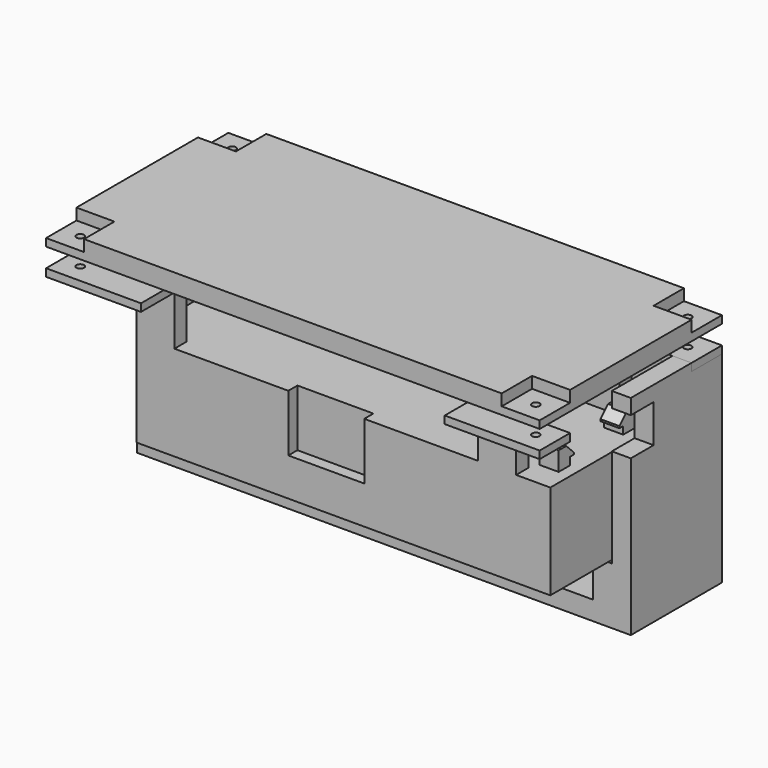
from build123d import *

# Parameters (mm, degrees)
CYLINDER002_R           = 1
CYLINDER002_DEPTH       = 20
BOX007_W                = 10
BOX007_H                = 10
BOX007_DEPTH            = 10
ARRAY005_X_COUNT        = 2
ARRAY005_X_PITCH        = 120
ARRAY005_Y_COUNT        = 2
ARRAY005_Y_PITCH        = 50
BOX002_W                = 130
BOX002_H                = 60
BOX002_DEPTH            = 5
BOX015_W                = 20
BOX015_H                = 3
BOX015_DEPTH            = 15
CYLINDER003_R           = 1
CYLINDER003_DEPTH       = 10
ARRAY009_X_COUNT        = 2
ARRAY009_X_PITCH        = 120
ARRAY009_Y_COUNT        = 2
ARRAY009_Y_PITCH        = 50
BOX011_W                = 25
BOX011_H                = 10
BOX011_DEPTH            = 2
ARRAY008_X_COUNT        = 2
ARRAY008_X_PITCH        = 105
ARRAY008_Y_COUNT        = 2
ARRAY008_Y_PITCH        = 50
BOX010_W                = 10
BOX010_H                = 15
BOX010_DEPTH            = 2
ARRAY007_X_COUNT        = 2
ARRAY007_X_PITCH        = 90
ARRAY007_Y_COUNT        = 2
ARRAY007_Y_PITCH        = 45
BOX009_W                = 10
BOX009_H                = 4
BOX009_DEPTH            = 15
ARRAY006_X_COUNT        = 2
ARRAY006_X_PITCH        = 90
ARRAY006_Y_COUNT        = 2
ARRAY006_Y_PITCH        = 34
BOX008_W                = 109
BOX008_H                = 38
BOX008_DEPTH            = 5
PAD001_DEPTH            = 20
SKETCH002_W             = 5
SKETCH002_H             = 11
PAD002_DEPTH            = 5
BOX013_W                = 17.5
BOX013_H                = 5
BOX013_DEPTH            = 2
BOX012_W                = 5
BOX012_H                = 5
BOX012_DEPTH            = 5
ARRAY010_X_COUNT        = 2
ARRAY010_X_PITCH        = 20
CHAMFER_SIZE            = 2.5
CHAMFER_PLACEMENT_ANGLE = 90
BOX016_W                = 130
BOX016_H                = 30
BOX016_DEPTH            = 60
BOX014_W                = 7
BOX014_H                = 15
BOX014_DEPTH            = 10
CYLINDER001_R           = 1
CYLINDER001_DEPTH       = 3
ARRAY004_X_COUNT        = 2
ARRAY004_X_PITCH        = 120
ARRAY004_Y_COUNT        = 2
ARRAY004_Y_PITCH        = 50
CYLINDER_R              = 1.5
CYLINDER_DEPTH          = 30
CYLINDER_ROLL_ANGLE     = 90
ARRAY003_X_COUNT        = 2
ARRAY003_X_PITCH        = 50
ARRAY003_Y_COUNT        = 2
ARRAY003_Y_PITCH        = 20
BOX006_W                = 25
BOX006_H                = 10
BOX006_DEPTH            = 2
ARRAY002_X_COUNT        = 2
ARRAY002_X_PITCH        = 105
ARRAY002_Y_COUNT        = 2
ARRAY002_Y_PITCH        = 50
BOX005_W                = 10
BOX005_H                = 10
BOX005_DEPTH            = 10
ARRAY001_X_COUNT        = 2
ARRAY001_X_PITCH        = 50
BOX004_W                = 10
BOX004_H                = 2
BOX004_DEPTH            = 10
ARRAY_X_COUNT           = 2
ARRAY_X_PITCH           = 50
ARRAY_Y_COUNT           = 2
ARRAY_Y_PITCH           = 20
BOX003_W                = 60
BOX003_H                = 10
BOX003_DEPTH            = 30
BOX001_W                = 120
BOX001_H                = 40
BOX001_DEPTH            = 50
BOX_W                   = 130
BOX_H                   = 60
BOX_DEPTH               = 55
PAD_DEPTH               = 10


with BuildPart() as cilindro002:
    # Cylinder002 → Cylinder002 (new body)
    with BuildSketch(Plane(origin=(5, 5, -5), x_dir=(1, 0, 0), z_dir=(0, 0, 1))):
        Circle(CYLINDER002_R)
    extrude(amount=CYLINDER002_DEPTH)


with BuildPart() as huecostapa:
    # Box007 → Box007 (new body)
    with BuildSketch(Plane.XY):
        with Locations((5, 5)):
            Rectangle(BOX007_W, BOX007_H)
    extrude(amount=BOX007_DEPTH)

    # Fusion: union Cilindro002
    add(cilindro002.part)

    # Array005 X: HuecosTapa ×2


with BuildPart() as huecostapa_1:
    add(huecostapa.part)
    with Locations(*[(i * ARRAY005_X_PITCH, 0, 0) for i in range(1, ARRAY005_X_COUNT)]):
        add(huecostapa.part)

    # Array005 Y: HuecosTapa ×2


with BuildPart() as huecostapa_2:
    add(huecostapa_1.part)
    with Locations(*[(0, i * ARRAY005_Y_PITCH, 0) for i in range(1, ARRAY005_Y_COUNT)]):
        add(huecostapa_1.part)


with BuildPart() as huecostapa_3:
    # Array005 placement: moved
    add(huecostapa_2.part.moved(Location((0, 0, 62))))


with BuildPart() as tapa:
    # Box002 → Box002 (new body)
    with BuildSketch(Plane.XY.offset(60)):
        with Locations((65, 30)):
            Rectangle(BOX002_W, BOX002_H)
    extrude(amount=BOX002_DEPTH)

    # Cut007: cut HuecosTapa
    add(huecostapa_3.part, mode=Mode.SUBTRACT)


with BuildPart() as hueco_tornillo_conector:
    # Box015 → Box015 (new body)
    with BuildSketch(Plane(origin=(55, 11, 25), x_dir=(1, 0, 0), z_dir=(0, 0, 1))):
        with Locations((10, 1.5)):
            Rectangle(BOX015_W, BOX015_H)
    extrude(amount=BOX015_DEPTH)


with BuildPart() as array009:
    # Cylinder003 → Cylinder003 (new body)
    with BuildSketch(Plane.XY):
        Circle(CYLINDER003_R)
    extrude(amount=CYLINDER003_DEPTH)

    # Array009 X: Array009 ×2


with BuildPart() as array009_1:
    add(array009.part)
    with Locations(*[(i * ARRAY009_X_PITCH, 0, 0) for i in range(1, ARRAY009_X_COUNT)]):
        add(array009.part)

    # Array009 Y: Array009 ×2


with BuildPart() as array009_2:
    add(array009_1.part)
    with Locations(*[(0, i * ARRAY009_Y_PITCH, 0) for i in range(1, ARRAY009_Y_COUNT)]):
        add(array009_1.part)


with BuildPart() as array009_3:
    # Array009 placement: moved
    add(array009_2.part.moved(Location((-10, -6, 13))))


with BuildPart() as array008:
    # Box011 → Box011 (new body)
    with BuildSketch(Plane(origin=(-15, -11, 18), x_dir=(1, 0, 0), z_dir=(0, 0, 1))):
        with Locations((12.5, 5)):
            Rectangle(BOX011_W, BOX011_H)
    extrude(amount=BOX011_DEPTH)

    # Array008 X: Array008 ×2


with BuildPart() as array008_1:
    add(array008.part)
    with Locations(*[(i * ARRAY008_X_PITCH, 0, 0) for i in range(1, ARRAY008_X_COUNT)]):
        add(array008.part)

    # Array008 Y: Array008 ×2


with BuildPart() as array008_2:
    add(array008_1.part)
    with Locations(*[(0, i * ARRAY008_Y_PITCH, 0) for i in range(1, ARRAY008_Y_COUNT)]):
        add(array008_1.part)


with BuildPart() as array007:
    # Box010 → Box010 (new body)
    with BuildSketch(Plane(origin=(0, -11, 18), x_dir=(1, 0, 0), z_dir=(0, 0, 1))):
        with Locations((5, 7.5)):
            Rectangle(BOX010_W, BOX010_H)
    extrude(amount=BOX010_DEPTH)

    # Array007 X: Array007 ×2


with BuildPart() as array007_1:
    add(array007.part)
    with Locations(*[(i * ARRAY007_X_PITCH, 0, 0) for i in range(1, ARRAY007_X_COUNT)]):
        add(array007.part)

    # Array007 Y: Array007 ×2


with BuildPart() as array007_2:
    add(array007_1.part)
    with Locations(*[(0, i * ARRAY007_Y_PITCH, 0) for i in range(1, ARRAY007_Y_COUNT)]):
        add(array007_1.part)


with BuildPart() as array006:
    # Box009 → Box009 (new body)
    with BuildSketch(Plane.XY.offset(5)):
        with Locations((5, 2)):
            Rectangle(BOX009_W, BOX009_H)
    extrude(amount=BOX009_DEPTH)

    # Array006 X: Array006 ×2


with BuildPart() as array006_1:
    add(array006.part)
    with Locations(*[(i * ARRAY006_X_PITCH, 0, 0) for i in range(1, ARRAY006_X_COUNT)]):
        add(array006.part)

    # Array006 Y: Array006 ×2


with BuildPart() as array006_2:
    add(array006_1.part)
    with Locations(*[(0, i * ARRAY006_Y_PITCH, 0) for i in range(1, ARRAY006_Y_COUNT)]):
        add(array006_1.part)


with BuildPart() as cut008:
    # Box008 → Box008 (new body)
    with BuildSketch(Plane.XY):
        with Locations((54.5, 19)):
            Rectangle(BOX008_W, BOX008_H)
    extrude(amount=BOX008_DEPTH)

    # Fusion001: union Array006
    add(array006_2.part)

    # Fusion002: union Array007
    add(array007_2.part)

    # Fusion003: union Array008
    add(array008_2.part)

    # Cut008: cut Array009
    add(array009_3.part, mode=Mode.SUBTRACT)


with BuildPart() as cut008_1:
    # Cut008 placement: moved
    add(cut008.part.moved(Location((0, 0, 20))))


with BuildPart() as cut011:
    # Sketch001 → Pad001 (new body)
    with BuildSketch(Plane.XY):
        Polygon((0, 24), (5, 24), (5, 34), (105, 34), (105, 4), (5, 4), (5, 14), (0, 14), (0, 0), (109, 0), (109, 38), (0, 38), align=None)
    extrude(amount=PAD001_DEPTH)

    # Fusion004: union Cut008
    add(cut008_1.part)


with BuildPart() as cut011_1:
    # Fusion004 placement: moved
    add(cut011.part.moved(Location((15, 11, 15))))

    # Sketch002 (on Face19 of Fusion004) → Pad002 (new body)
    with BuildSketch(Plane(origin=(15, 11, 40), x_dir=(1, 0, 0), z_dir=(0, 0, 1))):
        with Locations((84.75, 19)):
            Rectangle(SKETCH002_W, SKETCH002_H)
    extrude(amount=PAD002_DEPTH)

    # Cut011: cut Hueco_Tornillo_Conector
    add(hueco_tornillo_conector.part, mode=Mode.SUBTRACT)


with BuildPart() as clavijas_hueco:
    # Box013 → Box013 (new body)
    with BuildSketch(Plane(origin=(3.75, 0, 0), x_dir=(1, 0, 0), z_dir=(0, 0, 1))):
        with Locations((8.75, 2.5)):
            Rectangle(BOX013_W, BOX013_H)
    extrude(amount=BOX013_DEPTH)


with BuildPart() as soporte:
    # Box012 → Box012 (new body)
    with BuildSketch(Plane.XY):
        with Locations((2.5, 2.5)):
            Rectangle(BOX012_W, BOX012_H)
    extrude(amount=BOX012_DEPTH)

    # Array010 X: Soporte ×2


with BuildPart() as soporte_1:
    add(soporte.part)
    with Locations(*[(i * ARRAY010_X_PITCH, 0, 0) for i in range(1, ARRAY010_X_COUNT)]):
        add(soporte.part)

    # Cut009: cut Clavijas_hueco
    add(clavijas_hueco.part, mode=Mode.SUBTRACT)

    # Chamfer
    chamfer_edges = [soporte_1.edges().sort_by_distance(p)[0] for p in [
        (5, 2.5, 5),
        (20, 2.5, 5),
    ]]
    chamfer(chamfer_edges, length=CHAMFER_SIZE)


with BuildPart() as soporte_2:
    # Chamfer placement: moved
    add(soporte_1.part.moved(Location((121, 17.5, 40))).rotate(Axis((121, 17.5, 40), (0, 0, 1)), CHAMFER_PLACEMENT_ANGLE))

    # Fusion005: union Cut011
    add(cut011_1.part)


with BuildPart() as corte:
    # Box016 → Box016 (new body)
    with BuildSketch(Plane.XY):
        with Locations((65, 15)):
            Rectangle(BOX016_W, BOX016_H)
    extrude(amount=BOX016_DEPTH)


with BuildPart() as huecousb:
    # Box014 → Box014 (new body)
    with BuildSketch(Plane(origin=(124, 22.5, 41), x_dir=(1, 0, 0), z_dir=(0, 0, 1))):
        with Locations((3.5, 7.5)):
            Rectangle(BOX014_W, BOX014_H)
    extrude(amount=BOX014_DEPTH)


with BuildPart() as array004:
    # Cylinder001 → Cylinder001 (new body)
    with BuildSketch(Plane.XY):
        Circle(CYLINDER001_R)
    extrude(amount=CYLINDER001_DEPTH)

    # Array004 X: Array004 ×2


with BuildPart() as array004_1:
    add(array004.part)
    with Locations(*[(i * ARRAY004_X_PITCH, 0, 0) for i in range(1, ARRAY004_X_COUNT)]):
        add(array004.part)

    # Array004 Y: Array004 ×2


with BuildPart() as array004_2:
    add(array004_1.part)
    with Locations(*[(0, i * ARRAY004_Y_PITCH, 0) for i in range(1, ARRAY004_Y_COUNT)]):
        add(array004_1.part)


with BuildPart() as array004_3:
    # Array004 placement: moved
    add(array004_2.part.moved(Location((5, 5, 51))))


with BuildPart() as array003:
    # Cylinder → Cylinder (new body)
    with BuildSketch(Plane.XY):
        Circle(CYLINDER_R)
    extrude(amount=CYLINDER_DEPTH)


with BuildPart() as array003_1:
    # Cylinder roll: moved
    add(array003.part.rotate(Axis((0, 0, 0), (1, 0, 0)), CYLINDER_ROLL_ANGLE))


with BuildPart() as array003_2:
    # Cylinder placement: moved
    add(array003_1.part)

    # Array003 X: Array003 ×2


with BuildPart() as array003_3:
    add(array003_2.part)
    with Locations(*[(i * ARRAY003_X_PITCH, 0, 0) for i in range(1, ARRAY003_X_COUNT)]):
        add(array003_2.part)

    # Array003 Y: Array003 ×2


with BuildPart() as array003_4:
    add(array003_3.part)
    with Locations(*[(0, 0, i * ARRAY003_Y_PITCH) for i in range(1, ARRAY003_Y_COUNT)]):
        add(array003_3.part)


with BuildPart() as array003_5:
    # Array003 placement: moved
    add(array003_4.part.moved(Location((40, 15, 20))))


with BuildPart() as array002:
    # Box006 → Box006 (new body)
    with BuildSketch(Plane.XY):
        with Locations((12.5, 5)):
            Rectangle(BOX006_W, BOX006_H)
    extrude(amount=BOX006_DEPTH)

    # Array002 X: Array002 ×2


with BuildPart() as array002_1:
    add(array002.part)
    with Locations(*[(i * ARRAY002_X_PITCH, 0, 0) for i in range(1, ARRAY002_X_COUNT)]):
        add(array002.part)

    # Array002 Y: Array002 ×2


with BuildPart() as array002_2:
    add(array002_1.part)
    with Locations(*[(0, i * ARRAY002_Y_PITCH, 0) for i in range(1, ARRAY002_Y_COUNT)]):
        add(array002_1.part)


with BuildPart() as array002_3:
    # Array002 placement: moved
    add(array002_2.part.moved(Location((0, 0, 53))))


with BuildPart() as array001:
    # Box005 → Box005 (new body)
    with BuildSketch(Plane(origin=(35, 0, 25), x_dir=(1, 0, 0), z_dir=(0, 0, 1))):
        with Locations((5, 5)):
            Rectangle(BOX005_W, BOX005_H)
    extrude(amount=BOX005_DEPTH)

    # Array001 X: Array001 ×2


with BuildPart() as array001_1:
    add(array001.part)
    with Locations(*[(i * ARRAY001_X_PITCH, 0, 0) for i in range(1, ARRAY001_X_COUNT)]):
        add(array001.part)


with BuildPart() as array:
    # Box004 → Box004 (new body)
    with BuildSketch(Plane.XY):
        with Locations((5, 1)):
            Rectangle(BOX004_W, BOX004_H)
    extrude(amount=BOX004_DEPTH)

    # Array X: Array ×2


with BuildPart() as array_1:
    add(array.part)
    with Locations(*[(i * ARRAY_X_PITCH, 0, 0) for i in range(1, ARRAY_X_COUNT)]):
        add(array.part)

    # Array Y: Array ×2


with BuildPart() as array_2:
    add(array_1.part)
    with Locations(*[(0, 0, i * ARRAY_Y_PITCH) for i in range(1, ARRAY_Y_COUNT)]):
        add(array_1.part)


with BuildPart() as array_3:
    # Array placement: moved
    add(array_2.part.moved(Location((0, 5, 0))))


with BuildPart() as cut002:
    # Box003 → Box003 (new body)
    with BuildSketch(Plane.XY):
        with Locations((30, 5)):
            Rectangle(BOX003_W, BOX003_H)
    extrude(amount=BOX003_DEPTH)

    # Cut001: cut Array
    add(array_3.part, mode=Mode.SUBTRACT)


with BuildPart() as cut002_1:
    # Cut001 placement: moved
    add(cut002.part.moved(Location((35, 0, 15))))

    # Cut002: cut Array001
    add(array001_1.part, mode=Mode.SUBTRACT)


with BuildPart() as interior:
    # Box001 → Box001 (new body)
    with BuildSketch(Plane(origin=(5, 10, 5), x_dir=(1, 0, 0), z_dir=(0, 0, 1))):
        with Locations((60, 20)):
            Rectangle(BOX001_W, BOX001_H)
    extrude(amount=BOX001_DEPTH)


with BuildPart() as obj1:
    # Box → Box (new body)
    with BuildSketch(Plane.XY):
        with Locations((65, 30)):
            Rectangle(BOX_W, BOX_H)
    extrude(amount=BOX_DEPTH)

    # Cut: cut Interior
    add(interior.part, mode=Mode.SUBTRACT)

    # Cut003: cut Cut002
    add(cut002_1.part, mode=Mode.SUBTRACT)

    # Cut004: cut Array002
    add(array002_3.part, mode=Mode.SUBTRACT)

    # Sketch (on Face54 of Cut004) → Pad (new body)
    with BuildSketch(Plane.XY.offset(5)):
        Polygon((15, 35), (20, 35), (20, 45), (120, 45), (120, 15), (20, 15), (20, 25), (15, 25), (15, 10), (125, 10), (125, 50), (15, 50), align=None)
    extrude(amount=PAD_DEPTH)

    # Cut005: cut Array003
    add(array003_5.part, mode=Mode.SUBTRACT)

    # Cut006: cut Array004
    add(array004_3.part, mode=Mode.SUBTRACT)

    # Cut010: cut HuecoUSB
    add(huecousb.part, mode=Mode.SUBTRACT)

    # Cut012: cut Corte
    add(corte.part, mode=Mode.SUBTRACT)


solid = Compound([tapa.part, soporte_2.part, obj1.part])
